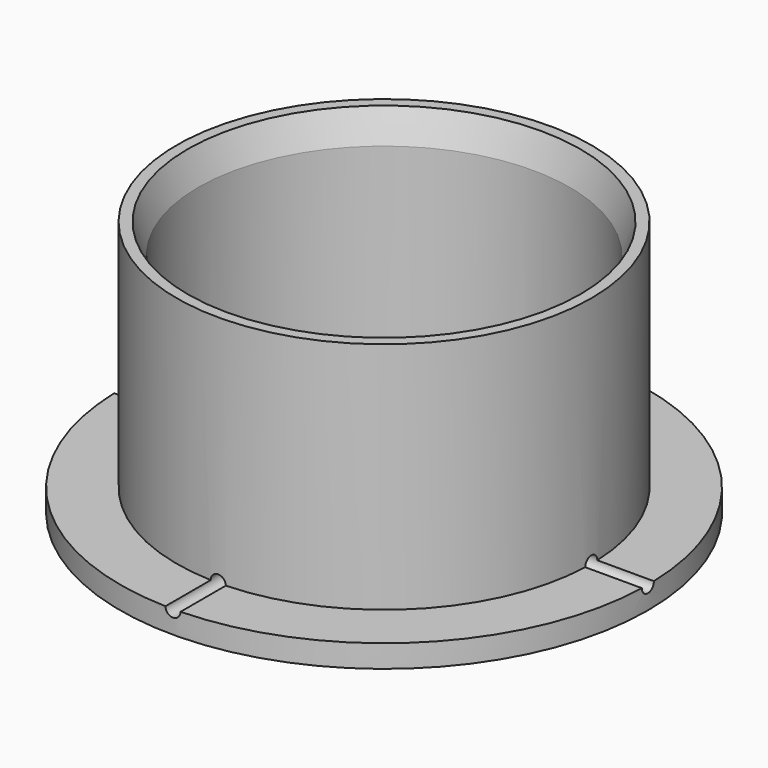
from build123d import *

# Parameters (mm, degrees)
SKETCH_R           = 13.75
SKETCH_R_2         = 12.325
PAD_DEPTH          = 15.5
SKETCH001_R        = 17.5
PAD001_DEPTH       = 1.5
CHAMFER_SIZE2      = 2
CHAMFER_SIZE       = 0.7
SKETCH002_R        = 0.5
POCKET_DEPTH       = 122.171913
POCKET_DEPTH_BACK  = 122.171913
POLARPATTERN_COUNT = 2
POLARPATTERN_ANGLE = 90


with BuildPart() as part:
    # Sketch → Pad (new body)
    with BuildSketch(Plane.XY):
        Circle(SKETCH_R)
        Circle(SKETCH_R_2, mode=Mode.SUBTRACT)
    extrude(amount=PAD_DEPTH)

    # Sketch001 → Pad001 (join)
    with BuildSketch(Plane.XY):
        Circle(SKETCH001_R)
    extrude(amount=-PAD001_DEPTH)

    # Chamfer
    chamfer_edges = [part.edges().sort_by_distance(p)[0] for p in [
        (-12.325, 0, 15.5),
    ]]
    chamfer_side = part.faces().sort_by_distance((-13.361091, 0, 15.5))[0]
    chamfer(chamfer_edges, length=CHAMFER_SIZE, length2=CHAMFER_SIZE2, reference=chamfer_side)

    # Sketch002 → Pocket (cut, two sides)
    with BuildSketch(Plane.YZ) as pocket_sk:
        Circle(SKETCH002_R)
    pocket = extrude(amount=-POCKET_DEPTH, mode=Mode.SUBTRACT) + extrude(pocket_sk.sketch, amount=POCKET_DEPTH_BACK, mode=Mode.SUBTRACT)

    # PolarPattern: Pocket ×2 about axis
    polarpattern_axis = Axis((0, 0, 0), (0, 0, 1))
    for i in range(1, POLARPATTERN_COUNT):
        add(pocket.rotate(polarpattern_axis, i * POLARPATTERN_ANGLE / (POLARPATTERN_COUNT - 1)), mode=Mode.SUBTRACT)


solid = part.part
